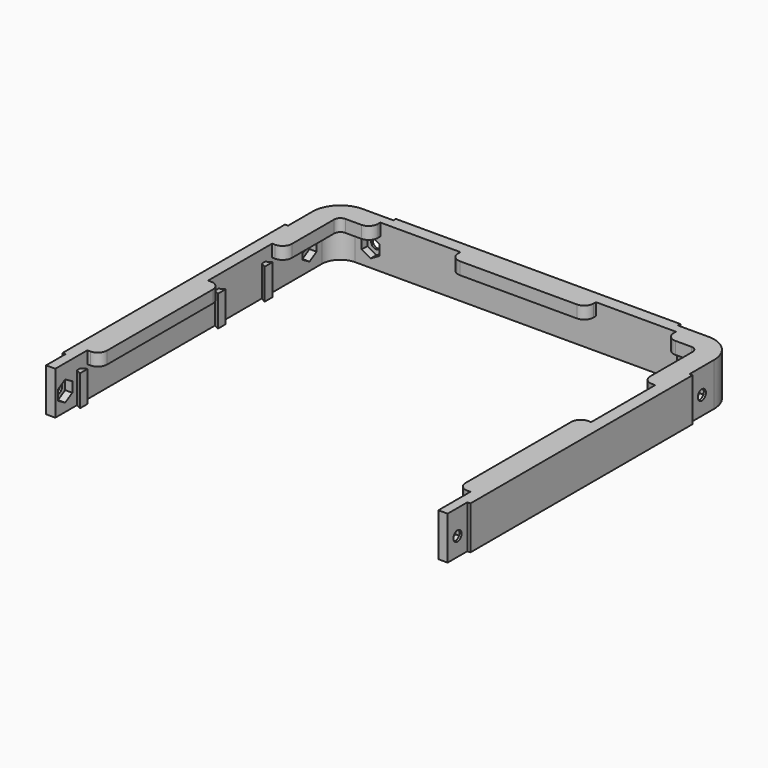
from build123d import *

# Parameters (mm, degrees)
SKETCH_W             = 132.4
SKETCH_H             = 118.2
PAD_DEPTH            = 4
PAD_DEPTH_BACK       = 10
SKETCH001_W          = 124.4
SKETCH001_H          = 114.2
POCKET_DEPTH         = 10.001
SKETCH002_W          = 116.4
SKETCH002_H          = 110.2
POCKET001_DEPTH      = 5
FILLET_R             = 6
FILLET001_R          = 10
FILLET002_R          = 2
POCKET002_DEPTH      = 10.001
POCKET002_DEPTH_BACK = 4.001
PAD001_DEPTH         = 10
SKETCH005_W          = 1
SKETCH005_H          = 8
POCKET003_DEPTH      = 10.001
POCKET003_DEPTH_BACK = 4.001
SKETCH006_R          = 1.65
POCKET004_DEPTH      = 66.201
POCKET004_DEPTH_BACK = 66.201
POCKET005_DEPTH      = 64.5
SKETCH008_R          = 1.65
POCKET006_DEPTH      = 59.101
POCKET006_DEPTH_BACK = 59.101
POCKET007_DEPTH      = 57.4
SKETCH010_W          = 124.4
SKETCH010_H          = 13
SKETCH010_H_2        = 26
SKETCH010_W_2        = 26
SKETCH010_H_3        = 4
POCKET008_DEPTH      = 4.001
FILLET003_R          = 3


with BuildPart() as part:
    # Sketch → Pad (new body, two sides)
    with BuildSketch(Plane.XY) as pad_sk:
        Rectangle(SKETCH_W, SKETCH_H)
    extrude(amount=PAD_DEPTH)
    extrude(pad_sk.sketch, amount=-PAD_DEPTH_BACK)

    # Sketch001 → Pocket (cut, through all)
    with BuildSketch(Plane.XY):
        with Locations((0, -2)):
            Rectangle(SKETCH001_W, SKETCH001_H)
    extrude(amount=-POCKET_DEPTH, mode=Mode.SUBTRACT)

    # Sketch002 → Pocket001 (cut)
    with BuildSketch(Plane.XY):
        with Locations((0, -4)):
            Rectangle(SKETCH002_W, SKETCH002_H)
    extrude(amount=POCKET001_DEPTH, mode=Mode.SUBTRACT)

    # Fillet
    fillet_edges = [part.edges().sort_by_distance(p)[0] for p in [
        (-62.2, 55.1, -5),
        (62.2, 55.1, -5),
    ]]
    fillet(fillet_edges, radius=FILLET_R)

    # Fillet001
    fillet001_edges = [part.edges().sort_by_distance(p)[0] for p in [
        (-66.2, 59.1, -3),
        (66.2, 59.1, -3),
    ]]
    fillet(fillet001_edges, radius=FILLET001_R)

    # Fillet002
    fillet002_edges = [part.edges().sort_by_distance(p)[0] for p in [
        (-58.2, 51.1, 2),
        (58.2, 51.1, 2),
    ]]
    fillet(fillet002_edges, radius=FILLET002_R)

    # Sketch003 → Pocket002 (cut, two sides)
    with BuildSketch(Plane.XY) as pocket002_sk:
        with BuildLine():
            Line((-65.2, 39.1), (-65.2, 49.1))
            ThreePointArc((-56.2, 58.1), (-62.563961, 55.463961), (-65.2, 49.1))
            Line((-46.2, 58.1), (-56.2, 58.1))
            Line((-46.2, 58.1), (-46.2, 59.1))
            Line((-46.2, 59.1), (-56.2, 59.1))
            ThreePointArc((-56.2, 59.1), (-63.271068, 56.171068), (-66.2, 49.1))
            Line((-66.2, 39.1), (-66.2, 49.1))
            Line((-65.2, 39.1), (-66.2, 39.1))
        make_face()
        with BuildLine():
            Line((65.2, 39.1), (65.2, 49.1))
            ThreePointArc((65.2, 49.1), (62.563961, 55.463961), (56.2, 58.1))
            Line((46.2, 58.1), (56.2, 58.1))
            Line((46.2, 58.1), (46.2, 59.1))
            Line((46.2, 59.1), (56.2, 59.1))
            ThreePointArc((66.2, 49.1), (63.271068, 56.171068), (56.2, 59.1))
            Line((66.2, 39.1), (66.2, 49.1))
            Line((65.2, 39.1), (66.2, 39.1))
        make_face()
    extrude(amount=-POCKET002_DEPTH, mode=Mode.SUBTRACT)
    extrude(pocket002_sk.sketch, amount=POCKET002_DEPTH_BACK, mode=Mode.SUBTRACT)

    # Sketch004 → Pad001 (join)
    with BuildSketch(Plane.XY):
        Polygon((-62.2, 24.7), (-62.2, 26.1), (-60.55, 27), (-60.55, 23.8), align=None)
        Polygon((-62.2, 5.7), (-60.55, 4.8), (-60.55, 8), (-62.2, 7.1), align=None)
        Polygon((-62.2, -50.3), (-60.55, -51.2), (-60.55, -48), (-62.2, -48.9), align=None)
        Polygon((62.2, 24.7), (62.2, 26.1), (60.55, 27), (60.55, 23.8), align=None)
        Polygon((62.2, 5.7), (60.55, 4.8), (60.55, 8), (62.2, 7.1), align=None)
        Polygon((62.2, -50.3), (60.55, -51.2), (60.55, -48), (62.2, -48.9), align=None)
    extrude(amount=-PAD001_DEPTH)

    # Sketch005 → Pocket003 (cut, two sides)
    with BuildSketch(Plane.XY) as pocket003_sk:
        with Locations((-65.7, -55.1)):
            Rectangle(SKETCH005_W, SKETCH005_H)
        with Locations((65.7, -55.1)):
            Rectangle(SKETCH005_W, SKETCH005_H)
    extrude(amount=-POCKET003_DEPTH, mode=Mode.SUBTRACT)
    extrude(pocket003_sk.sketch, amount=POCKET003_DEPTH_BACK, mode=Mode.SUBTRACT)

    # Sketch006 → Pocket004 (cut, two sides)
    with BuildSketch(Plane.YZ) as pocket004_sk:
        with Locations((-55.1, -4)):
            Circle(SKETCH006_R)
        with Locations((44.1, -4)):
            Circle(SKETCH006_R)
    extrude(amount=-POCKET004_DEPTH, mode=Mode.SUBTRACT)
    extrude(pocket004_sk.sketch, amount=POCKET004_DEPTH_BACK, mode=Mode.SUBTRACT)

    # Sketch007 → Pocket005 (cut, symmetric)
    with BuildSketch(Plane.YZ):
        Polygon((-57.975, -5.659882), (-55.1, -7.319764), (-52.225, -5.659882), (-52.225, -2.340118), (-55.1, -0.680236), (-57.975, -2.340118), align=None)
        Polygon((44.1, -7.319764), (46.975, -5.659882), (46.975, -2.340118), (44.1, -0.680236), (41.225, -2.340118), (41.225, -5.659882), align=None)
    extrude(amount=POCKET005_DEPTH, both=True, mode=Mode.SUBTRACT)

    # Sketch008 → Pocket006 (cut, two sides)
    with BuildSketch(Plane.XZ) as pocket006_sk:
        with Locations((-51.2, -4)):
            Circle(SKETCH008_R)
        with Locations((51.2, -4)):
            Circle(SKETCH008_R)
    extrude(amount=-POCKET006_DEPTH, mode=Mode.SUBTRACT)
    extrude(pocket006_sk.sketch, amount=POCKET006_DEPTH_BACK, mode=Mode.SUBTRACT)

    # Sketch009 → Pocket007 (cut)
    with BuildSketch(Plane.XZ):
        Polygon((-51.2, -7.319764), (-48.325, -5.659882), (-48.325, -2.340118), (-51.2, -0.680236), (-54.075, -2.340118), (-54.075, -5.659882), align=None)
        Polygon((51.2, -7.319764), (54.075, -5.659882), (54.075, -2.340118), (51.2, -0.680236), (48.325, -2.340118), (48.325, -5.659882), align=None)
    extrude(amount=-POCKET007_DEPTH, mode=Mode.SUBTRACT)

    # Sketch010 → Pocket008 (cut, through all)
    with BuildSketch(Plane.XY):
        with Locations((0, -52.6)):
            Rectangle(SKETCH010_W, SKETCH010_H)
        with Locations((0, 15.9)):
            Rectangle(SKETCH010_W, SKETCH010_H_2)
        with Locations((-35, 53.1)):
            Rectangle(SKETCH010_W_2, SKETCH010_H_3)
        with Locations((35, 53.1)):
            Rectangle(SKETCH010_W_2, SKETCH010_H_3)
    extrude(amount=POCKET008_DEPTH, mode=Mode.SUBTRACT)

    # Fillet003
    fillet003_edges = [part.edges().sort_by_distance(p)[0] for p in [
        (-58.2, -46.1, 2),
        (-58.2, 2.9, 2),
        (-58.2, 28.9, 2),
        (-48, 51.1, 2),
        (-22, 51.1, 2),
        (22, 51.1, 2),
        (48, 51.1, 2),
        (58.2, 28.9, 2),
        (58.2, 2.9, 2),
        (58.2, -46.1, 2),
    ]]
    fillet(fillet003_edges, radius=FILLET003_R)


solid = part.part
